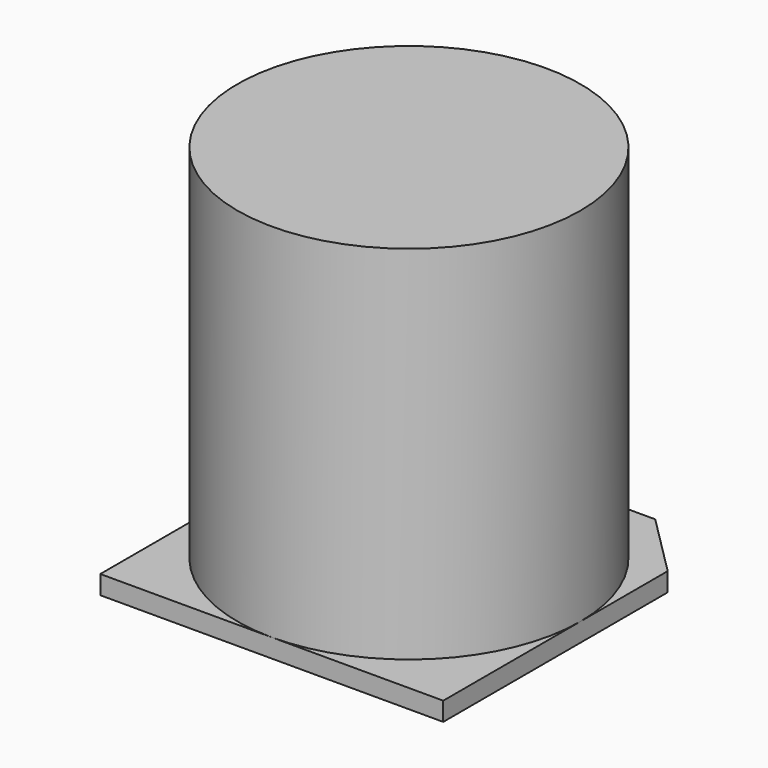
from build123d import *

# Parameters (mm, degrees)
F1_DEPTH = 0.3
F2_R     = 2.75
F3_DEPTH = 6.1


with BuildPart() as f1:
    # F0 (on Top) → F1 (new body)
    with BuildSketch(Plane.XY):
        Polygon((-2.75, -2.75), (2.75, -2.75), (2.75, 1.75), (1.75, 2.75), (-1.75, 2.75), (-2.75, 1.75), align=None)
    extrude(amount=F1_DEPTH)

    # F2 (on Top) → F3 (join)
    with BuildSketch(Plane.XY):
        Circle(F2_R)
    extrude(amount=F3_DEPTH)


solid = f1.part
